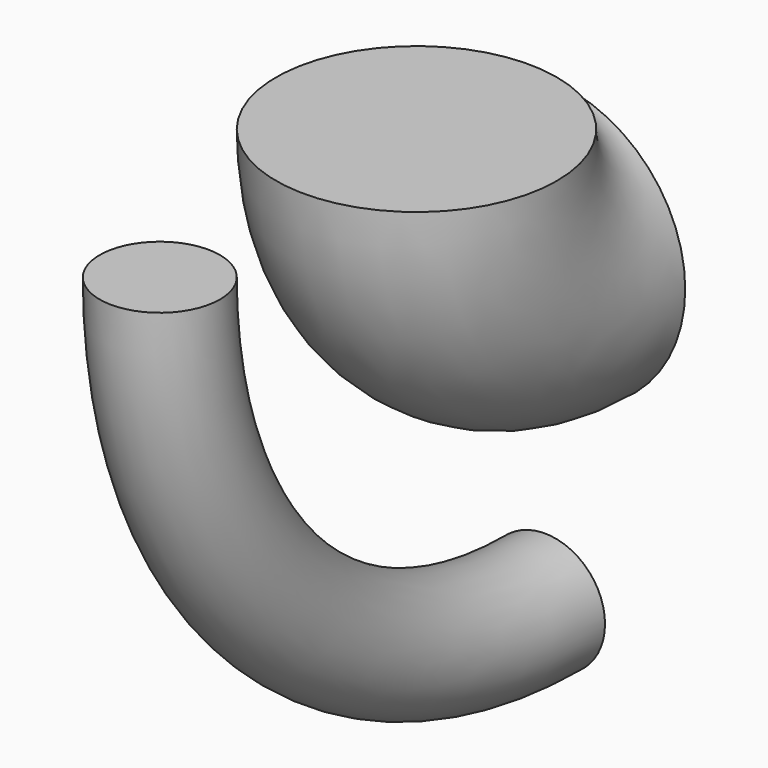
from build123d import *

# Parameters (mm, degrees)
F0_R   = 11.1125
F0_R_2 = 4.7625


with BuildPart() as f2:
    # F2: sweep along a path in F1
    with BuildLine(Plane.YZ) as f2_path:
        ThreePointArc((-38.1, 38.1), (-26.940768, 11.159232), (0, 0))
    # F0 (on Front) → F2 (sweep)
    with BuildSketch(Plane.XZ):
        with Locations((0, 25.4)):
            Circle(F0_R)
        Circle(F0_R_2)
    sweep(path=f2_path.line)


solid = f2.part
